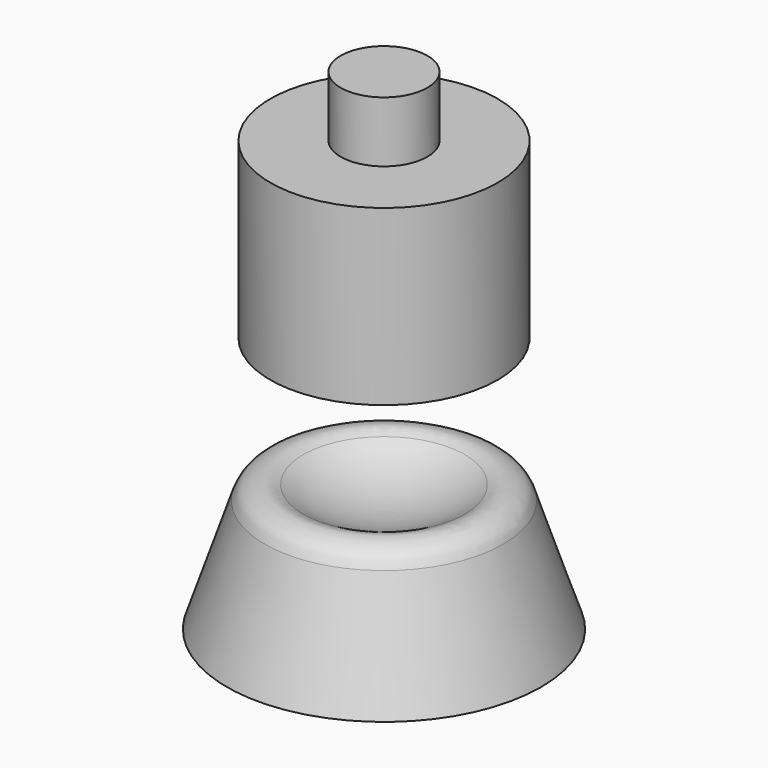
from build123d import *

# Parameters (mm, degrees)
F2_R     = 2.5
F3_DEPTH = 4.5
F4_R     = 1.5
F5_R     = 6.55
F6_DEPTH = 10
F7_R     = 2.5
F8_DEPTH = 3.5


with BuildPart() as f1:
    # F0 (on Front) → F1 (revolve)
    with BuildSketch(Plane.XZ):
        with BuildLine():
            Line((0, -8.763), (0, -14.763))
            Line((0, -14.763), (9.05, -14.763))
            Line((9.05, -14.763), (6.196377, -6.196377))
            ThreePointArc((6.196377, -6.196377), (3.353455, -8.095956), (0, -8.763))
        make_face()
    revolve(axis=Axis((0, 0, -11.763), (0, 0, 1)))

    # F2 (on face) → F3 (cut)
    with BuildSketch(Plane(origin=(0, 0, -14.763), x_dir=(1, 0, 0), z_dir=(0, 0, -1))):
        Circle(F2_R)
    extrude(amount=-F3_DEPTH, mode=Mode.SUBTRACT)

    # F4
    f4_edges = [f1.edges().sort_by_distance(p)[0] for p in [
        (-6.196377, 0, -6.196377),
    ]]
    fillet(f4_edges, radius=F4_R)


with BuildPart() as f6:
    # F5 (on Top) → F6 (new body)
    with BuildSketch(Plane.XY):
        Circle(F5_R)
    extrude(amount=F6_DEPTH)

    # F7 (on face) → F8 (join)
    with BuildSketch(Plane.XY.offset(10)):
        Circle(F7_R)
    extrude(amount=F8_DEPTH)


solid = Compound([f1.part, f6.part])
